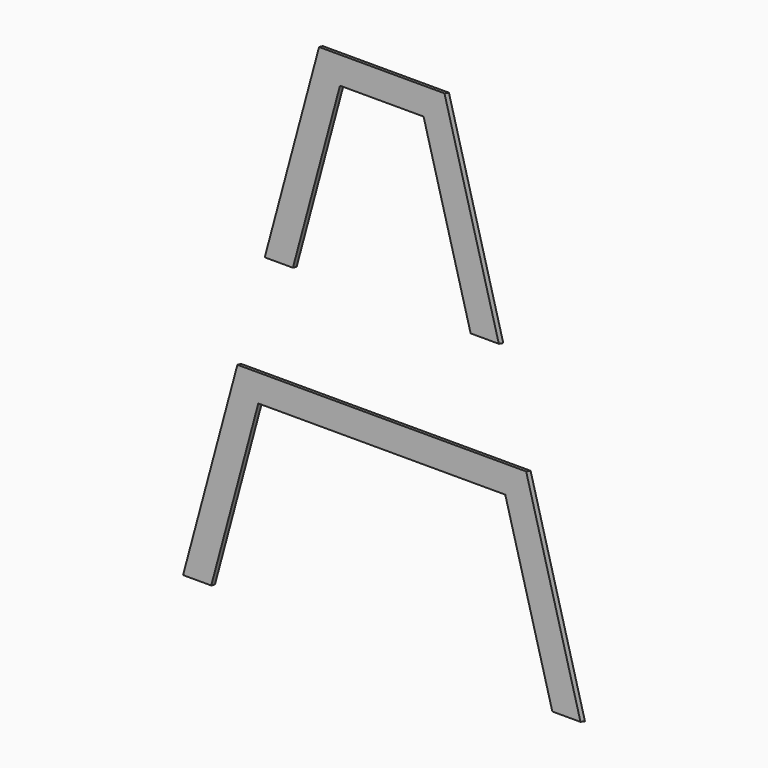
from build123d import *

# Parameters (mm, degrees)
F1_DEPTH = 19.05
F3_DEPTH = 19.05
F5_DEPTH = 762


with BuildPart() as f1:
    # F0 (on Front) → F1 (new body)
    with BuildSketch(Plane.XZ):
        Polygon((-538.772715, 0), (-742.95, -762), (-637.76594, -762), (-460.812293, -101.6), (0, -101.6), (460.812293, -101.6), (637.76594, -762), (742.95, -762), (538.772715, 0), (0, 0), align=None)
    extrude(amount=F1_DEPTH)


with BuildPart() as f3:
    # F2 (on Front) → F3 (new body)
    with BuildSketch(Plane.XZ):
        Polygon((-156.012293, 1041.4), (0, 1041.4), (156.012293, 1041.4), (332.96594, 381), (438.15, 381), (233.972715, 1143), (0, 1143), (-233.972715, 1143), (-438.15, 381), (-332.96594, 381), align=None)
    extrude(amount=F3_DEPTH)


with BuildPart() as f5_tool:
    # F4 (on Right) → F5 (new body, symmetric)
    with BuildSketch(Plane.YZ):
        Polygon((-19.05, -756.895568), (-19.05, -762), (0, -762), align=None)
        Polygon((0, -5.104432), (0, 0), (-19.05, 0), align=None)
        Polygon((-19.05, 381), (0, 381), (-19.05, 386.104432), align=None)
        Polygon((0, 1143), (-19.05, 1143), (0, 1137.895568), align=None)
    extrude(amount=F5_DEPTH, both=True)


with BuildPart() as f1_1:
    add(f1.part)

    # F5: cut by f5_tool
    add(f5_tool.part, mode=Mode.SUBTRACT)


with BuildPart() as f3_1:
    add(f3.part)

    # F5: cut by f5_tool
    add(f5_tool.part, mode=Mode.SUBTRACT)


solid = Compound([f1_1.part, f3_1.part])
